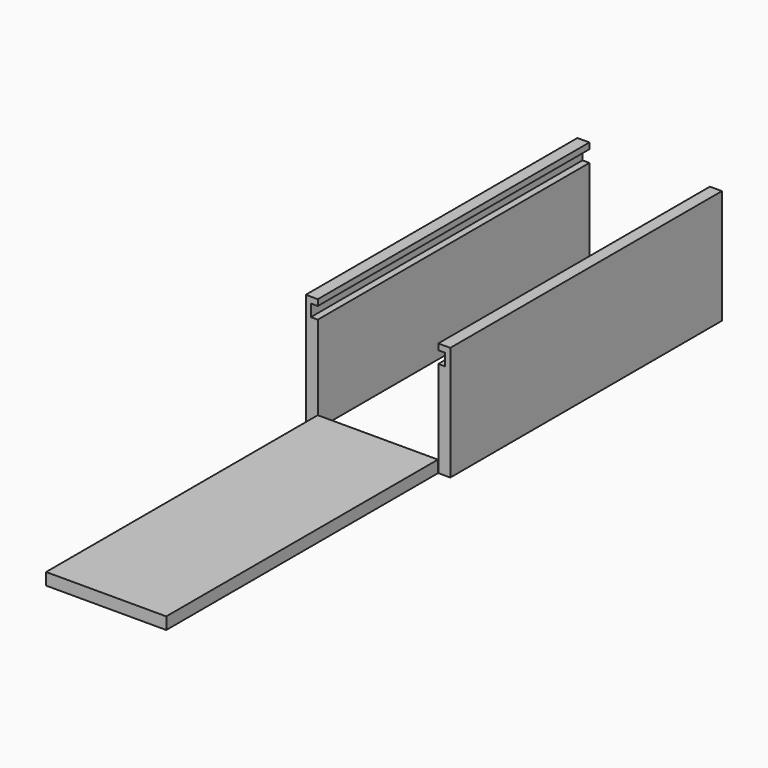
from build123d import *

# Parameters (mm, degrees)
F1_DEPTH = 358.775
F2_ANGLE = -180
F4_W     = 127
F4_H     = 12.7
F5_DEPTH = 358.775


with BuildPart() as f1:
    # F0 (on Front) → F1 (new body)
    with BuildSketch(Plane.XZ):
        Polygon((59.7180537879, -59.1680564639), (59.7180537879, 61.4819435361), (47.0180537879, 61.4819435361), (47.0180537879, 55.1319435361), (54.3143040535, 55.1319435361), (54.3143040535, 42.4319435361), (47.0180537879, 42.4319435361), (47.0180537879, -59.1680564639), align=None)
    extrude(amount=F1_DEPTH)


with BuildPart() as f2_1:
    # F2: copy of F1
    add(f1.part.rotate(Axis((47.0180537879, 0, -8.3680564639), (0, 0, 1)), F2_ANGLE))


with BuildPart() as f2_1_1:
    # F3: moved
    add(f2_1.part.moved(Location((-127, 0, 0))))

    # F4 (on Front) → F5 (join)
    with BuildSketch(Plane.XZ):
        with Locations((-16.5569838136, -52.7990477608)):
            Rectangle(F4_W, F4_H)
    extrude(amount=F5_DEPTH)


with BuildPart() as f2_1_2:
    # F7: moved
    add(f2_1_1.part.moved(Location((0, -359.156, 0))))


solid = Compound([f1.part, f2_1_2.part])
